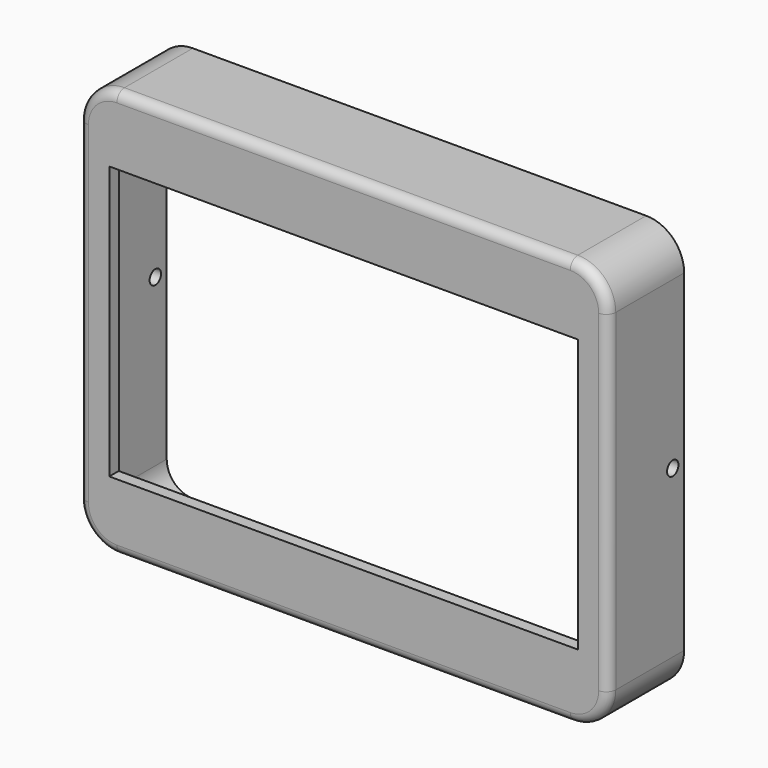
from build123d import *

# Parameters (mm, degrees)
F1_DEPTH  = 20
F2_T      = -2.5
F5_W      = 98.7
F5_H      = 57.5
F6_DEPTH  = 50
F7_W      = 15
F7_H      = 2
F8_DEPTH  = 6
F11_R     = 2
F12_R     = 1.5
F13_DEPTH = 70


with BuildPart() as f1:
    # F0 (on Front) → F1 (new body)
    with BuildSketch(Plane.XZ):
        with BuildLine():
            Line((47.75, 43), (-47.75, 43))
            ThreePointArc((-47.75, 43), (-53.406854, 40.656854), (-55.75, 35))
            Line((-55.75, 35), (-55.75, -35))
            ThreePointArc((-55.75, -35), (-53.406854, -40.656854), (-47.75, -43))
            Line((-47.75, -43), (47.75, -43))
            ThreePointArc((47.75, -43), (53.406854, -40.656854), (55.75, -35))
            Line((55.75, -35), (55.75, 35))
            ThreePointArc((55.75, 35), (53.406854, 40.656854), (47.75, 43))
        make_face()
    extrude(amount=F1_DEPTH)

    # F2
    f2_openings = [f1.faces().sort_by_distance(p)[0] for p in [
        (0, 0, 0),
    ]]
    offset(amount=F2_T, openings=f2_openings)

    # F5 (on Front) → F6 (cut)
    with BuildSketch(Plane.XZ):
        with Locations((0, -0.05)):
            Rectangle(F5_W, F5_H)
    extrude(amount=F6_DEPTH, mode=Mode.SUBTRACT)

    # F7 (on offset) → F8 (join)
    with BuildSketch(Plane.XZ.offset(20)):
        with Locations((45.943302, -37.5)):
            Rectangle(F7_W, F7_H)
        with Locations((-45.943302, -37.5)):
            Rectangle(F7_W, F7_H)
        with Locations((45.908305, 32.5)):
            Rectangle(F7_W, F7_H)
        with Locations((-45.908305, 32.5)):
            Rectangle(F7_W, F7_H)
    extrude(amount=-F8_DEPTH)

    # F11
    f11_edges = [f1.edges().sort_by_distance(p)[0] for p in [
        (0, -20, 43),
        (55.75, -20, 0),
    ]]
    fillet(f11_edges, radius=F11_R)

    # F12 (on Right) → F13 (cut, symmetric)
    with BuildSketch(Plane.YZ):
        with Locations((-3, 0)):
            Circle(F12_R)
    extrude(amount=F13_DEPTH, both=True, mode=Mode.SUBTRACT)


solid = f1.part
